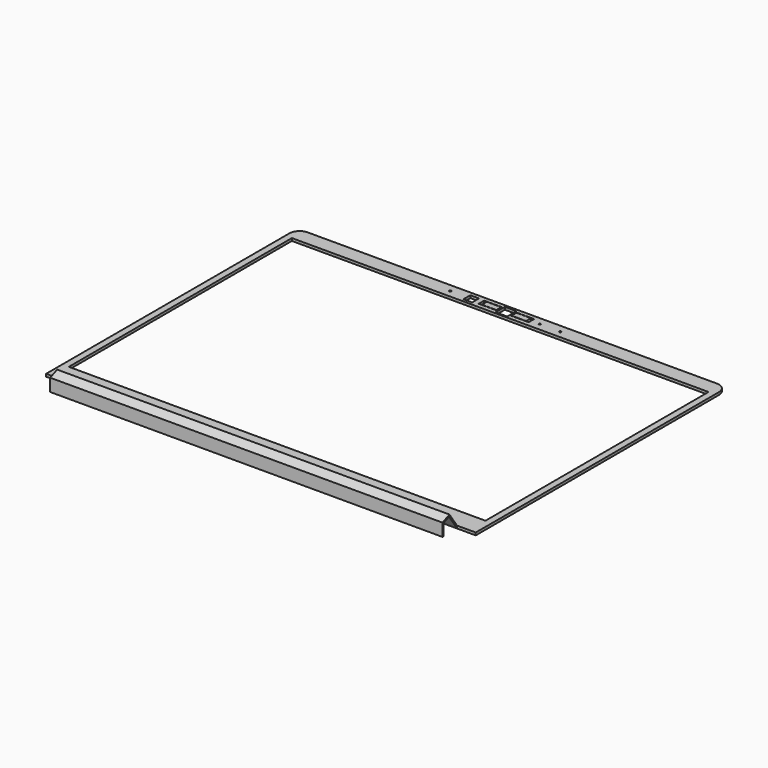
from build123d import *

# Parameters (mm, degrees)
SKETCH009_R   = 0.625
SKETCH009_R_2 = 0.75
SKETCH009_W   = 287.63
SKETCH009_H   = 192.5
SKETCH009_W_2 = 8
SKETCH009_H_2 = 8
SKETCH009_W_3 = 6
SKETCH009_H_3 = 6
PAD002_DEPTH  = 1.78
SKETCH_W      = 12.25
SKETCH_H      = 4.75
SKETCH_W_2    = 10
SKETCH_H_2    = 4.25
POCKET_DEPTH  = 1.7799
PAD_START     = 12.9
PAD_DEPTH     = 270.83


with BuildPart() as part:
    # Sketch009 → Pad002 (new body)
    with BuildSketch(Plane.XY.offset(12.53)):
        with BuildLine():
            Line((7, 228.98), (289.63, 228.98))
            ThreePointArc((296.63, 221.98), (294.579747, 226.929747), (289.63, 228.98))
            Line((296.63, 221.98), (296.63, 11.98))
            Line((296.63, 11.98), (0, 11.98))
            Line((0, 11.98), (0, 221.98))
            ThreePointArc((7, 228.98), (2.050253, 226.929747), (0, 221.98))
        make_face()
        with Locations((171.565, 223.48)):
            Circle(SKETCH009_R, mode=Mode.SUBTRACT)
        with Locations((185.815, 223.48)):
            Circle(SKETCH009_R_2, mode=Mode.SUBTRACT)
        with Locations((109.815, 223.48)):
            Circle(SKETCH009_R_2, mode=Mode.SUBTRACT)
        with Locations((148.315, 122.23)):
            Rectangle(SKETCH009_W, SKETCH009_H, mode=Mode.SUBTRACT)
        with Locations((148.315, 223.48)):
            Rectangle(SKETCH009_W_2, SKETCH009_H_2, mode=Mode.SUBTRACT)
        with Locations((124.315, 223.48)):
            Rectangle(SKETCH009_W_3, SKETCH009_H_3, mode=Mode.SUBTRACT)
    extrude(amount=-PAD002_DEPTH)

    # Sketch (on Sketch) → Pocket (cut)
    with BuildSketch(Plane.XY.offset(12.53)):
        with Locations((137.19, 223.855)):
            Rectangle(SKETCH_W, SKETCH_H)
        with Locations((138.065, 223.855)):
            Rectangle(SKETCH_W_2, SKETCH_H_2, mode=Mode.SUBTRACT)
        with Locations((159.44, 223.855)):
            Rectangle(SKETCH_W, SKETCH_H)
        with Locations((158.565, 223.855)):
            Rectangle(SKETCH_W_2, SKETCH_H_2, mode=Mode.SUBTRACT)
    extrude(amount=-POCKET_DEPTH, mode=Mode.SUBTRACT)

    # Sketch010 → Pad (join)
    with BuildSketch(Plane.YZ.offset(PAD_START)):
        Polygon((11.98, 12.53), (5.383871, 21.950249), (-0.621346, 19.462806), (-0.621346, 10.75), (0.378654, 10.75), (0.378654, 18.794628), (5.025063, 20.719233), (11.98, 10.75), align=None)
    extrude(amount=PAD_DEPTH)


solid = part.part
